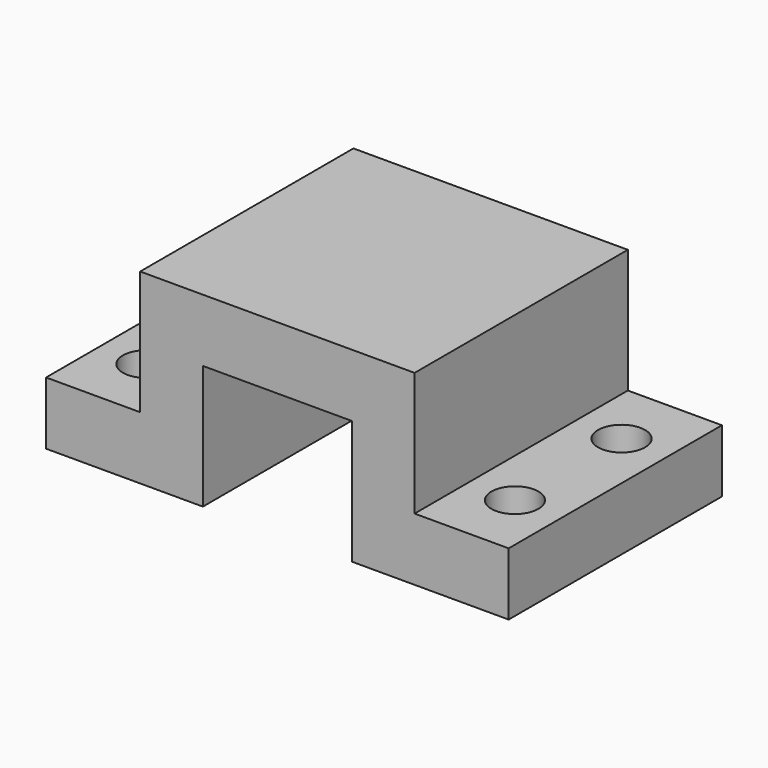
from build123d import *

# Parameters (mm, degrees)
F1_DEPTH = 21.59
F2_R     = 1.905
F3_DEPTH = 5.081


with BuildPart() as f1:
    # F0 (on Front) → F1 (new body)
    with BuildSketch(Plane.XZ):
        Polygon((-18.7325, 5.08), (-18.7325, 0), (-6.0325, 0), (-6.0325, 10.033), (0, 10.033), (6.0325, 10.033), (6.0325, 0), (18.7325, 0), (18.7325, 5.08), (11.1125, 5.08), (11.1125, 15.113), (0, 15.113), (-11.1125, 15.113), (-11.1125, 5.08), align=None)
    extrude(amount=F1_DEPTH)

    # F2 (on face) → F3 (cut, through all)
    with BuildSketch(Plane.XY.offset(5.08)):
        with Locations((-14.9225, -5.3975)):
            Circle(F2_R)
        with Locations((-14.9225, -16.1925)):
            Circle(F2_R)
        with Locations((14.9225, -16.1925)):
            Circle(F2_R)
        with Locations((14.9225, -5.3975)):
            Circle(F2_R)
    extrude(amount=-F3_DEPTH, mode=Mode.SUBTRACT)


solid = f1.part
